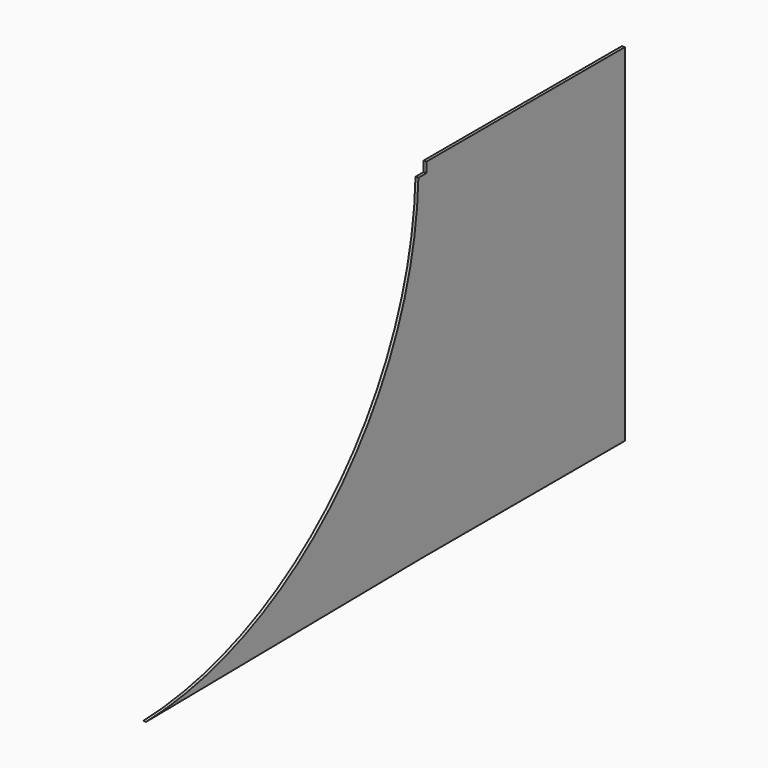
from build123d import *

# Parameters (mm, degrees)
F1_DEPTH = 25.4


with BuildPart() as f1:
    # F0 (on Right) → F1 (new body)
    with BuildSketch(Plane.YZ):
        with BuildLine():
            Line((2635.504189, 1529.438918), (455.706796, 1529.438918))
            Line((455.706796, 1529.438918), (455.706796, 1440.538918))
            Line((455.706796, 1440.538918), (366.806796, 1440.538918))
            ThreePointArc((366.806796, 1440.538918), (-534.470679, -651.751629), (-2625.977351, -1554.846674))
            Line((-2625.977351, -1554.846674), (409.98043, -1518.561082))
            Line((409.98043, -1518.561082), (2635.504189, -1518.561082))
            Line((2635.504189, -1518.561082), (2635.504189, 1529.438918))
        make_face()
    extrude(amount=F1_DEPTH)


solid = f1.part
